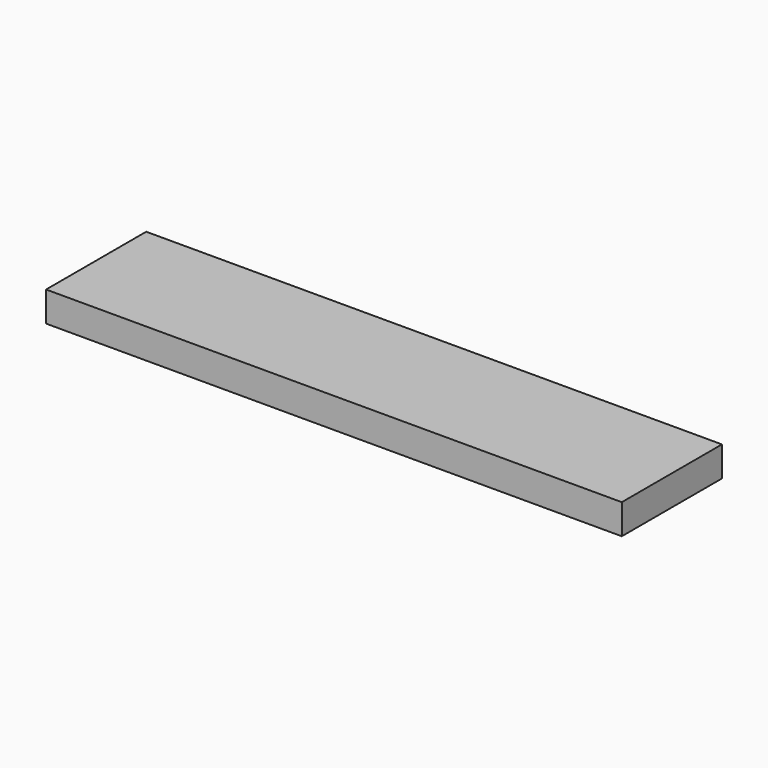
from build123d import *

# Parameters (mm, degrees)
PAD_DEPTH    = 12
POCKET_DEPTH = 1


with BuildPart() as part:
    # Sketch → Pad (new body)
    with BuildSketch(Plane.XY):
        Polygon((0, 0), (0, 25), (230, 25), (230, -25), (0, -25), align=None)
    extrude(amount=PAD_DEPTH)

    # Sketch002 (on Face7 of Pad) → Pocket (cut)
    with BuildSketch(Plane.XY.offset(12)):
        Polygon((0, -25), (0, -71.973152), (230, -25), align=None)
    extrude(amount=-POCKET_DEPTH, mode=Mode.SUBTRACT)


solid = part.part
